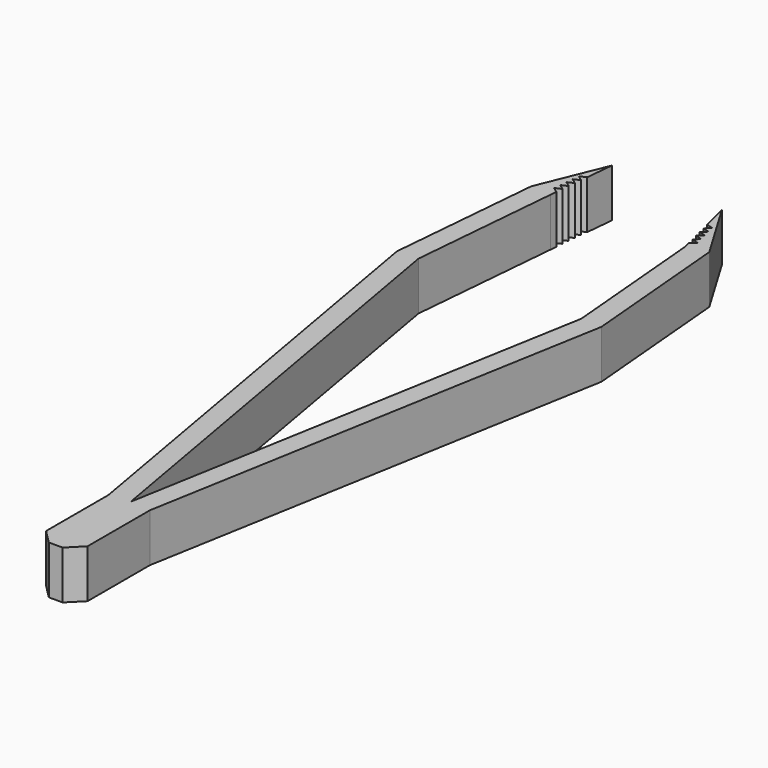
from build123d import *

# Parameters (mm, degrees)
F0_W     = 6
F0_H     = 13.295454
F1_DEPTH = 7
F2_SIZE  = 2


with BuildPart() as f1:
    # F0 (on Top) → F1 (new body)
    with BuildSketch(Plane.XY):
        Polygon((-8.782924, 66.457867), (-12.721482, 56.78893), (-9.735013, 56.503294), (-9.639804, 57.498751), (-10.454291, 58.078933), (-9.544595, 58.494208), (-10.359082, 59.07439), (-9.449386, 59.489666), (-10.263873, 60.069848), (-9.354177, 60.485123), (-10.168664, 61.065305), (-9.258968, 61.48058), (-10.073455, 62.060762), (-9.16376, 62.476038), align=None)
        Polygon((-14.638909, 34.872646), (-2.830833, -32.094281), (3.169167, -32.094281), (14.977244, 34.872646), (13.059817, 56.78893), (10.112168, 56.059576), (11.954237, 35.004634), (0.169167, -31.831815), (-11.615902, 35.004634), (-9.735013, 56.503294), (-12.721482, 56.78893), align=None)
        with Locations((0.169167, -38.742008)):
            Rectangle(F0_W, F0_H)
        Polygon((10.112168, 56.059576), (13.059817, 56.78893), (7.710246, 65.766829), (8.671014, 61.883928), (9.631783, 61.606578), (8.911207, 60.913202), (9.871976, 60.635852), (9.151399, 59.942477), (10.112168, 59.665127), (9.391591, 58.971752), (10.35236, 58.694402), (9.631783, 58.001026), (10.592552, 57.723676), (9.871976, 57.030301), align=None)
    extrude(amount=F1_DEPTH)

    # F2
    f2_edges = [f1.edges().sort_by_distance(p)[0] for p in [
        (-2.830833, -45.389735, 3.5),
        (3.169167, -45.389735, 3.5),
    ]]
    chamfer(f2_edges, length=F2_SIZE)


solid = f1.part
